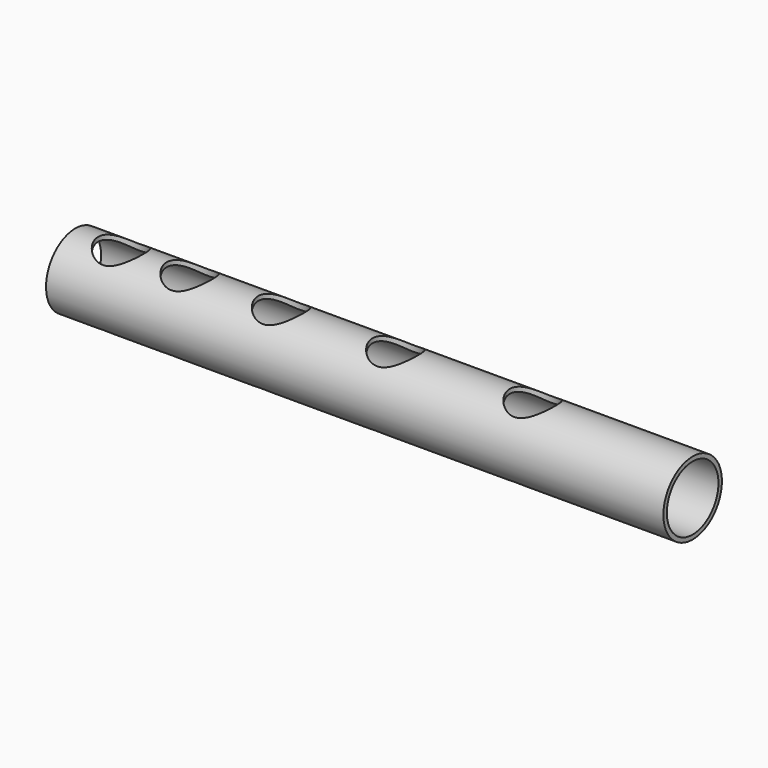
from build123d import *

# Parameters (mm, degrees)
F0_R     = 80
F0_R_2   = 70.5
F1_DEPTH = 1350
F3_DEPTH = 100


with BuildPart() as f1:
    # F0 (on Right) → F1 (new body)
    with BuildSketch(Plane.YZ):
        Circle(F0_R)
        Circle(F0_R_2, mode=Mode.SUBTRACT)
    extrude(amount=F1_DEPTH)

    # F2 (on Top) → F3 (cut, symmetric)
    with BuildSketch(Plane.XY):
        with BuildLine():
            Line((150, 0), (100, 0))
            Line((100, 0), (50, 0))
            ThreePointArc((50, 0), (100, -50), (150, 0))
        make_face()
        with BuildLine():
            Line((50, 0), (100, 0))
            Line((100, 0), (150, 0))
            ThreePointArc((150, 0), (100, 50), (50, 0))
        make_face()
        with BuildLine():
            ThreePointArc((300, 0), (250, 50), (200, 0))
            Line((200, 0), (250, 0))
            Line((250, 0), (300, 0))
        make_face()
        with BuildLine():
            Line((250, 0), (200, 0))
            ThreePointArc((200, 0), (250, -50), (300, 0))
            Line((300, 0), (250, 0))
        make_face()
        with BuildLine():
            ThreePointArc((500, 0), (450, 50), (400, 0))
            Line((400, 0), (450, 0))
            Line((450, 0), (500, 0))
        make_face()
        with BuildLine():
            Line((450, 0), (400, 0))
            ThreePointArc((400, 0), (450, -50), (500, 0))
            Line((500, 0), (450, 0))
        make_face()
        with BuildLine():
            ThreePointArc((750, 0), (700, 50), (650, 0))
            Line((650, 0), (700, 0))
            Line((700, 0), (750, 0))
        make_face()
        with BuildLine():
            Line((700, 0), (650, 0))
            ThreePointArc((650, 0), (700, -50), (750, 0))
            Line((750, 0), (700, 0))
        make_face()
        with BuildLine():
            ThreePointArc((1050, 0), (1000, 50), (950, 0))
            Line((950, 0), (1000, 0))
            Line((1000, 0), (1050, 0))
        make_face()
        with BuildLine():
            Line((1000, 0), (950, 0))
            ThreePointArc((950, 0), (1000, -50), (1050, 0))
            Line((1050, 0), (1000, 0))
        make_face()
    extrude(amount=F3_DEPTH, both=True, mode=Mode.SUBTRACT)


solid = f1.part
